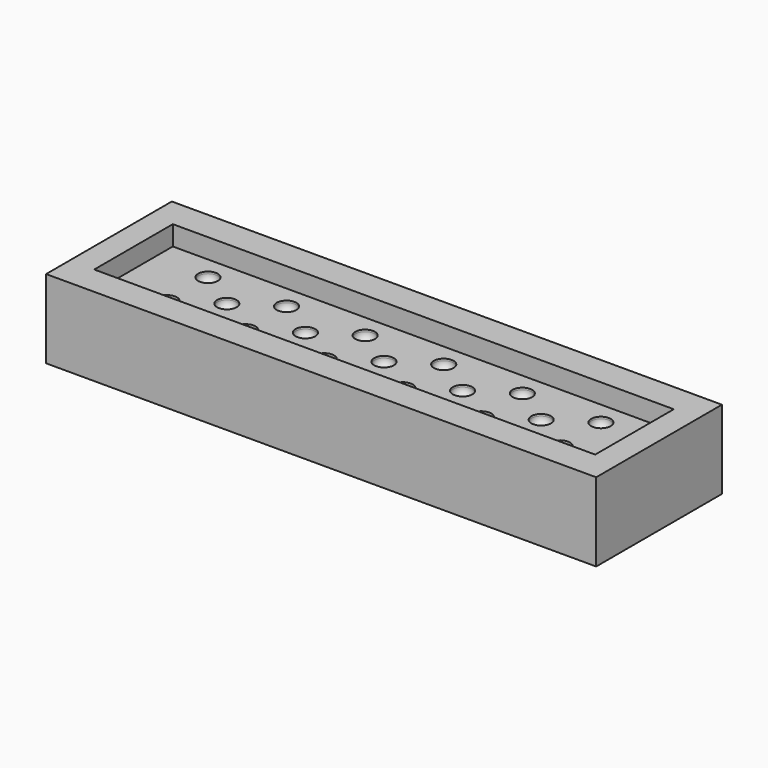
from build123d import *

# Parameters (mm, degrees)
F0_W     = 35.56
F0_H     = 10.16
F1_DEPTH = 5.08
F2_W     = 32.385
F2_H     = 6.35
F3_DEPTH = 1.27
F4_R     = 0.635
F5_DEPTH = 0.635
F6_R     = 0.508


with BuildPart() as f1:
    # F0 (on Top) → F1 (new body)
    with BuildSketch(Plane.XY):
        Rectangle(F0_W, F0_H)
    extrude(amount=F1_DEPTH)

    # F2 (on face) → F3 (cut)
    with BuildSketch(Plane.XY.offset(5.08)):
        Rectangle(F2_W, F2_H)
    extrude(amount=-F3_DEPTH, mode=Mode.SUBTRACT)

    # F4 (on face) → F5 (cut)
    with BuildSketch(Plane.XY.offset(3.81)):
        with Locations((-12.7, 1.651)):
            Circle(F4_R)
        with Locations((-10.16, 0)):
            Circle(F4_R)
        with Locations((-7.62, 1.651)):
            Circle(F4_R)
        with Locations((-2.54, 1.651)):
            Circle(F4_R)
        with Locations((2.54, 1.651)):
            Circle(F4_R)
        with Locations((7.62, 1.651)):
            Circle(F4_R)
        with Locations((12.7, 1.651)):
            Circle(F4_R)
        with Locations((-5.08, 0)):
            Circle(F4_R)
        Circle(F4_R)
        with Locations((5.08, 0)):
            Circle(F4_R)
        with Locations((10.16, 0)):
            Circle(F4_R)
        with Locations((-12.7, -1.651)):
            Circle(F4_R)
        with Locations((-7.62, -1.651)):
            Circle(F4_R)
        with Locations((-2.54, -1.651)):
            Circle(F4_R)
        with Locations((2.54, -1.651)):
            Circle(F4_R)
        with Locations((7.62, -1.651)):
            Circle(F4_R)
        with Locations((12.7, -1.651)):
            Circle(F4_R)
    extrude(amount=-F5_DEPTH, mode=Mode.SUBTRACT)

    # F6
    f6_edges = [f1.edges().sort_by_distance(p)[0] for p in [
        (-13.335, 1.651, 3.175),
        (-13.335, -1.651, 3.175),
        (-10.795, 0, 3.175),
        (-8.255, 1.651, 3.175),
        (-5.715, 0, 3.175),
        (-3.175, 1.651, 3.175),
        (-3.175, -1.651, 3.175),
        (-8.255, -1.651, 3.175),
        (-0.635, 0, 3.175),
        (1.905, 1.651, 3.175),
        (1.905, -1.651, 3.175),
        (4.445, 0, 3.175),
        (6.985, -1.651, 3.175),
        (6.985, 1.651, 3.175),
        (9.525, 0, 3.175),
        (12.065, 1.651, 3.175),
        (12.065, -1.651, 3.175),
    ]]
    fillet(f6_edges, radius=F6_R)


solid = f1.part
